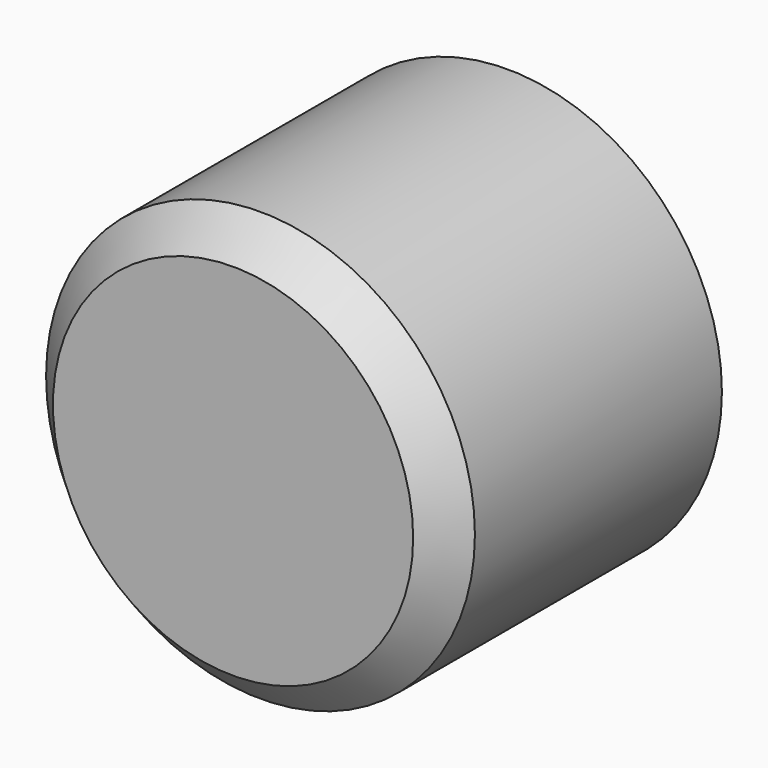
from build123d import *

# Parameters (mm, degrees)
F0_R     = 12.7
F1_DEPTH = 20.32
F2_SIZE  = 2.032


with BuildPart() as f1:
    # F0 (on Front) → F1 (new body)
    with BuildSketch(Plane.XZ):
        with Locations((17.966704, 22.361439)):
            Circle(F0_R)
    extrude(amount=F1_DEPTH)

    # F2
    f2_edges = [f1.edges().sort_by_distance(p)[0] for p in [
        (5.266704, -20.32, 22.361439),
    ]]
    chamfer(f2_edges, length=F2_SIZE)


solid = f1.part
